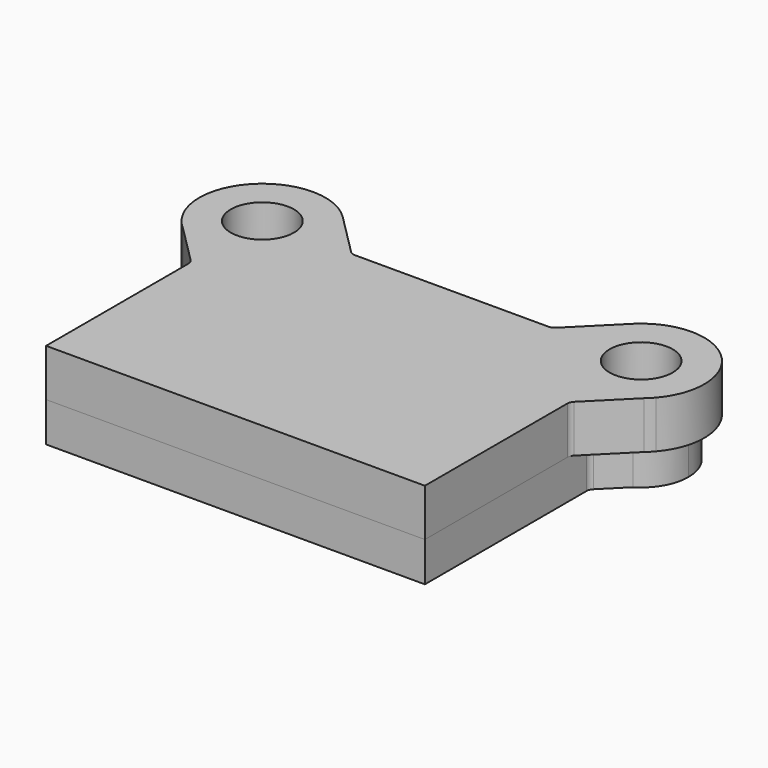
from build123d import *

# Parameters (mm, degrees)
F0_R     = 25.4
F1_DEPTH = 31.75
F4_R     = 25.4
F5_DEPTH = 38.1


with BuildPart() as f1:
    # F0 (on Top) → F1 (new body)
    with BuildSketch(Plane.XY):
        with BuildLine():
            Line((-152.4, 53.903384), (-152.4, -108.766722))
            Line((-152.4, -108.766722), (152.4, -108.766722))
            Line((152.4, -108.766722), (152.4, 53.903384))
            ThreePointArc((152.4, 53.903384), (152.883365, 56.333424), (154.259872, 58.393512))
            Line((154.259872, 58.393512), (171.903576, 76.037216))
            ThreePointArc((171.903576, 76.037216), (125.64579, 81.640678), (119.404432, 127.816722))
            Line((119.404432, 127.816722), (102.214304, 110.626594))
            ThreePointArc((102.214304, 110.626594), (100.154216, 109.250087), (97.724176, 108.766722))
            Line((97.724176, 108.766722), (-97.724176, 108.766722))
            ThreePointArc((-97.724176, 108.766722), (-100.154216, 109.250087), (-102.214304, 110.626594))
            Line((-102.214304, 110.626594), (-119.404432, 127.816722))
            ThreePointArc((-119.404432, 127.816722), (-115.598226, 118.627727), (-114.3, 108.766722))
            ThreePointArc((-114.3, 108.766722), (-125.459232, 81.825953), (-152.4, 70.666722))
            Line((-152.4, 70.666722), (-152.4, 53.903384))
        make_face()
        with BuildLine():
            ThreePointArc((-171.903576, 76.037216), (-162.514738, 72.033874), (-152.4, 70.666722))
            ThreePointArc((-152.4, 70.666722), (-125.459232, 81.825953), (-114.3, 108.766722))
            ThreePointArc((-114.3, 108.766722), (-115.598226, 118.627727), (-119.404432, 127.816722))
            ThreePointArc((-119.404432, 127.816722), (-179.15421, 135.892765), (-171.903576, 76.037216))
        make_face()
        with Locations((-152.4, 108.766722)):
            Circle(F0_R, mode=Mode.SUBTRACT)
        with BuildLine():
            ThreePointArc((119.404432, 127.816722), (125.64579, 81.640678), (171.903576, 76.037216))
            ThreePointArc((171.903576, 76.037216), (185.526245, 89.944876), (190.5, 108.766722))
            ThreePointArc((190.5, 108.766722), (162.261006, 145.568496), (119.404432, 127.816722))
        make_face()
        with Locations((152.4, 108.766722)):
            Circle(F0_R, mode=Mode.SUBTRACT)
        with BuildLine():
            ThreePointArc((-154.259872, 58.393512), (-152.883365, 56.333424), (-152.4, 53.903384))
            Line((-152.4, 53.903384), (-152.4, 70.666722))
            ThreePointArc((-152.4, 70.666722), (-162.514738, 72.033874), (-171.903576, 76.037216))
            Line((-171.903576, 76.037216), (-154.259872, 58.393512))
        make_face()
    extrude(amount=F1_DEPTH)


with BuildPart() as f2_1:
    # F2: copy of F1
    add(f1.part)


with BuildPart() as f5:
    # F4 (on face) → F5 (new body)
    with BuildSketch(Plane.XY.offset(31.75)):
        with BuildLine():
            Line((-152.4, -108.766722), (152.4, -108.766722))
            Line((152.4, -108.766722), (152.4, 34.487204))
            ThreePointArc((152.4, 34.487204), (152.883365, 36.917244), (154.259872, 38.977332))
            Line((154.259872, 38.977332), (185.594833, 70.312293))
            Line((185.594833, 70.312293), (190.854429, 75.571889))
            ThreePointArc((190.854429, 75.571889), (187.381702, 145.603124), (117.26457, 145.456523))
            Line((117.26457, 145.456523), (115.710199, 143.902152))
            Line((115.710199, 143.902152), (82.43464, 110.626594))
            ThreePointArc((82.43464, 110.626594), (80.374552, 109.250087), (77.944512, 108.766722))
            Line((77.944512, 108.766722), (-77.944512, 108.766722))
            ThreePointArc((-77.944512, 108.766722), (-80.374552, 109.250087), (-82.43464, 110.626594))
            Line((-82.43464, 110.626594), (-115.710199, 143.902152))
            Line((-115.710199, 143.902152), (-117.26457, 145.456523))
            ThreePointArc((-117.26457, 145.456523), (-187.381702, 145.603124), (-190.854429, 75.571889))
            Line((-190.854429, 75.571889), (-185.594833, 70.312293))
            Line((-185.594833, 70.312293), (-154.259872, 38.977332))
            ThreePointArc((-154.259872, 38.977332), (-152.883365, 36.917244), (-152.4, 34.487204))
            Line((-152.4, 34.487204), (-152.4, -108.766722))
        make_face()
        with Locations((-152.4, 108.766722)):
            Circle(F4_R, mode=Mode.SUBTRACT)
        with Locations((152.4, 108.766722)):
            Circle(F4_R, mode=Mode.SUBTRACT)
        with BuildLine():
            Line((190.854429, 75.571889), (185.594833, 70.312293))
            ThreePointArc((185.594833, 70.312293), (188.321024, 72.845697), (190.854429, 75.571889))
        make_face()
        with BuildLine():
            ThreePointArc((-190.854429, 75.571889), (-188.321024, 72.845697), (-185.594833, 70.312293))
            Line((-185.594833, 70.312293), (-190.854429, 75.571889))
        make_face()
        with BuildLine():
            Line((115.710199, 143.902152), (117.26457, 145.456523))
            ThreePointArc((117.26457, 145.456523), (116.478976, 144.687746), (115.710199, 143.902152))
        make_face()
        with BuildLine():
            ThreePointArc((-115.710199, 143.902152), (-116.478976, 144.687746), (-117.26457, 145.456523))
            Line((-117.26457, 145.456523), (-115.710199, 143.902152))
        make_face()
    extrude(amount=F5_DEPTH)


solid = Compound([f1.part, f5.part])
